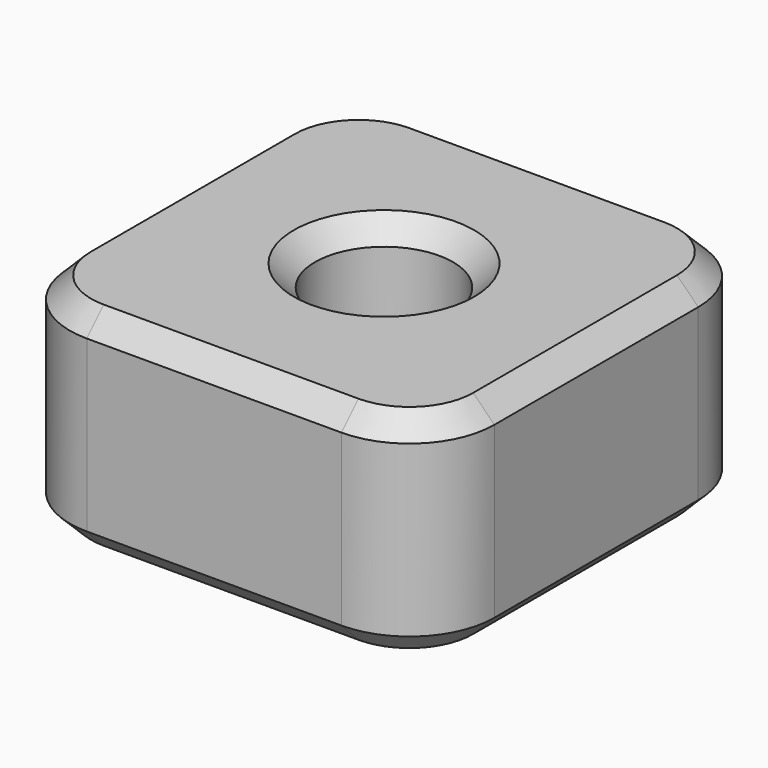
from build123d import *

# Parameters (mm, degrees)
SKETCH_W        = 20
SKETCH_H        = 20
SKETCH_R        = 3.25
PAD_DEPTH       = 10
FILLET_R        = 4
CHAMFER_SIZE    = 1
CHAMFER001_SIZE = 1


with BuildPart() as part:
    # Sketch → Pad (new body)
    with BuildSketch(Plane.XY):
        with Locations((10, 10)):
            Rectangle(SKETCH_W, SKETCH_H)
        with Locations((10, 10)):
            Circle(SKETCH_R, mode=Mode.SUBTRACT)
    extrude(amount=PAD_DEPTH)

    # Fillet
    fillet_edges = [part.edges().sort_by_distance(p)[0] for p in [
        (0, 20, 5),
        (20, 20, 5),
        (0, 0, 5),
        (20, 0, 5),
    ]]
    fillet(fillet_edges, radius=FILLET_R)

    # Chamfer
    chamfer_edges = [part.edges().sort_by_distance(p)[0] for p in [
        (10, 20, 10),
        (1.171573, 18.828427, 10),
        (18.828427, 18.828427, 10),
        (0, 10, 10),
        (20, 10, 10),
        (1.171573, 1.171573, 10),
        (18.828427, 1.171573, 10),
        (10, 0, 10),
        (6.75, 10, 10),
    ]]
    chamfer(chamfer_edges, length=CHAMFER_SIZE)

    # Chamfer001
    chamfer001_edges = [part.edges().sort_by_distance(p)[0] for p in [
        (10, 20, 0),
        (1.171573, 18.828427, 0),
        (18.828427, 18.828427, 0),
        (0, 10, 0),
        (20, 10, 0),
        (1.171573, 1.171573, 0),
        (18.828427, 1.171573, 0),
        (10, 0, 0),
        (6.75, 10, 0),
    ]]
    chamfer(chamfer001_edges, length=CHAMFER001_SIZE)


solid = part.part
